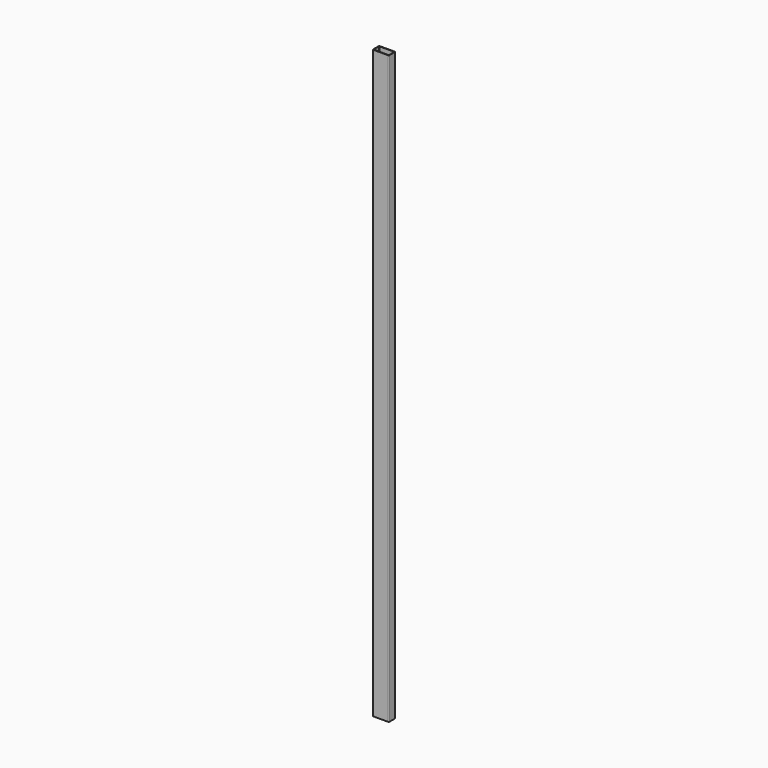
from build123d import *

# Parameters (mm, degrees)
F1_DEPTH = 1825


with BuildPart() as f1:
    # F0 (on Top) → F1 (new body)
    with BuildSketch(Plane.XY):
        with BuildLine():
            ThreePointArc((25, 10), (24.267767, 11.767767), (22.5, 12.5))
            Line((22.5, 12.5), (-22.5, 12.5))
            ThreePointArc((-22.5, 12.5), (-24.267767, 11.767767), (-25, 10))
            Line((-25, 10), (-25, -10))
            ThreePointArc((-25, -10), (-24.267767, -11.767767), (-22.5, -12.5))
            Line((-22.5, -12.5), (22.5, -12.5))
            ThreePointArc((22.5, -12.5), (24.267767, -11.767767), (25, -10))
            Line((25, -10), (25, 10))
        make_face()
        with BuildLine():
            ThreePointArc((23.5, -10), (23.207107, -10.707107), (22.5, -11))
            Line((22.5, -11), (-22.5, -11))
            ThreePointArc((-22.5, -11), (-23.207107, -10.707107), (-23.5, -10))
            Line((-23.5, -10), (-23.5, 10))
            ThreePointArc((-23.5, 10), (-23.207107, 10.707107), (-22.5, 11))
            Line((-22.5, 11), (23.5, 11))
            Line((23.5, 11), (23.5, -10))
        make_face(mode=Mode.SUBTRACT)
    extrude(amount=F1_DEPTH)


solid = f1.part
